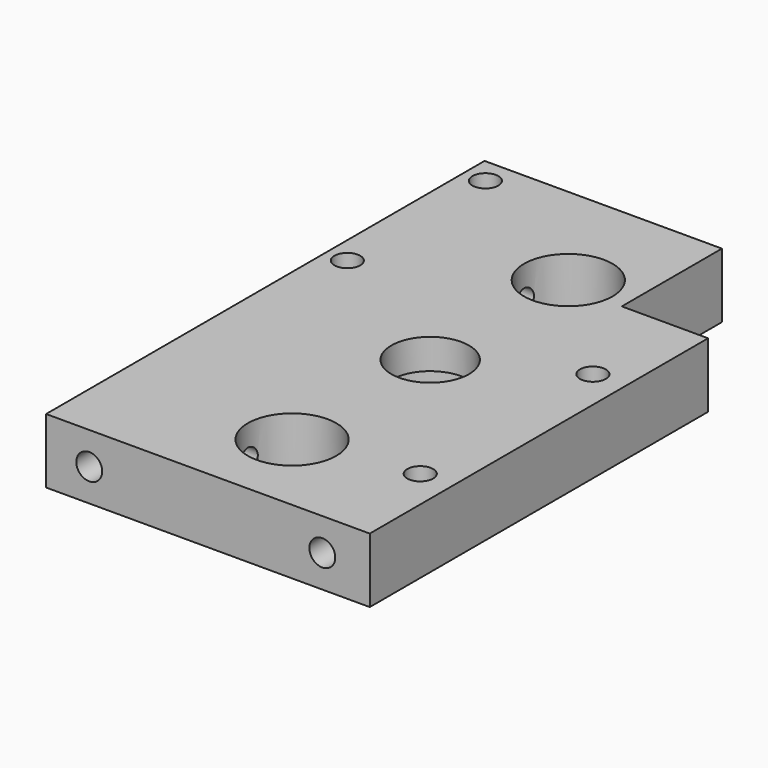
from build123d import *

# Parameters (mm, degrees)
F1_DEPTH  = 15
F2_R      = 3
F2_R_2    = 9
F3_DEPTH  = 15.001
F4_R      = 5.5
F5_DEPTH  = 6
F6_R      = 10.25
F7_DEPTH  = 12
F9_D      = 5
F9_DEPTH  = 35
F10_R     = 5
F10_R_2   = 2.5
F11_DEPTH = 18
F12_R     = 3
F13_DEPTH = 17.9
F14_R     = 14
F15_DEPTH = 8


with BuildPart() as f1:
    # F0 (on Top) → F1 (new body)
    with BuildSketch(Plane.XY):
        Polygon((0, 127), (0, 0), (75, 0), (75, 98), (55, 98), (55, 127), align=None)
    extrude(amount=F1_DEPTH)

    # F2 (on face) → F3 (cut, through all)
    with BuildSketch(Plane(origin=(0, 0, 0), x_dir=(1, 0, 0), z_dir=(0, 0, -1))):
        with Locations((5, -121)):
            Circle(F2_R)
        with Locations((5, -81)):
            Circle(F2_R)
        with Locations((41, -60)):
            Circle(F2_R_2)
        with Locations((67.5, -24)):
            Circle(F2_R)
        with Locations((67.5, -74)):
            Circle(F2_R)
    extrude(amount=-F3_DEPTH, mode=Mode.SUBTRACT)

    # F4 (on face) → F5 (cut)
    with BuildSketch(Plane(origin=(0, 0, 0), x_dir=(1, 0, 0), z_dir=(0, 0, -1))):
        with Locations((67.5, -74)):
            Circle(F4_R)
        with Locations((67.5, -24)):
            Circle(F4_R)
    extrude(amount=-F5_DEPTH, mode=Mode.SUBTRACT)

    # F6 (on face) → F7 (cut)
    with BuildSketch(Plane.XY.offset(15)):
        with Locations((41, 100)):
            Circle(F6_R)
        with Locations((41, 20)):
            Circle(F6_R)
    extrude(amount=-F7_DEPTH, mode=Mode.SUBTRACT)

    # F9
    with Locations(Plane(origin=(0, 0, 0), x_dir=(0, -1, 0), z_dir=(-1, 0, 0))):
        with Locations((-100, 7.5), (-20, 7.5)):
            Hole(F9_D / 2, depth=F9_DEPTH)

    # F10 (on face) → F11 (cut)
    with BuildSketch(Plane(origin=(0, 0, 0), x_dir=(0, -1, 0), z_dir=(-1, 0, 0))):
        with Locations((-100, 7.5)):
            Circle(F10_R)
        with Locations((-100, 7.5)):
            Circle(F10_R_2, mode=Mode.SUBTRACT)
        with Locations((-20, 7.5)):
            Circle(F10_R)
        with Locations((-20, 7.5)):
            Circle(F10_R_2, mode=Mode.SUBTRACT)
    extrude(amount=-F11_DEPTH, mode=Mode.SUBTRACT)

    # F12 (on face) → F13 (cut)
    with BuildSketch(Plane.XZ):
        with Locations((10, 7.5)):
            Circle(F12_R)
        with Locations((64, 7.5)):
            Circle(F12_R)
    extrude(amount=-F13_DEPTH, mode=Mode.SUBTRACT)

    # F14 (on face) → F15 (cut)
    with BuildSketch(Plane(origin=(0, 0, 0), x_dir=(1, 0, 0), z_dir=(0, 0, -1))):
        with Locations((41, -60)):
            Circle(F14_R)
    extrude(amount=-F15_DEPTH, mode=Mode.SUBTRACT)


solid = f1.part
